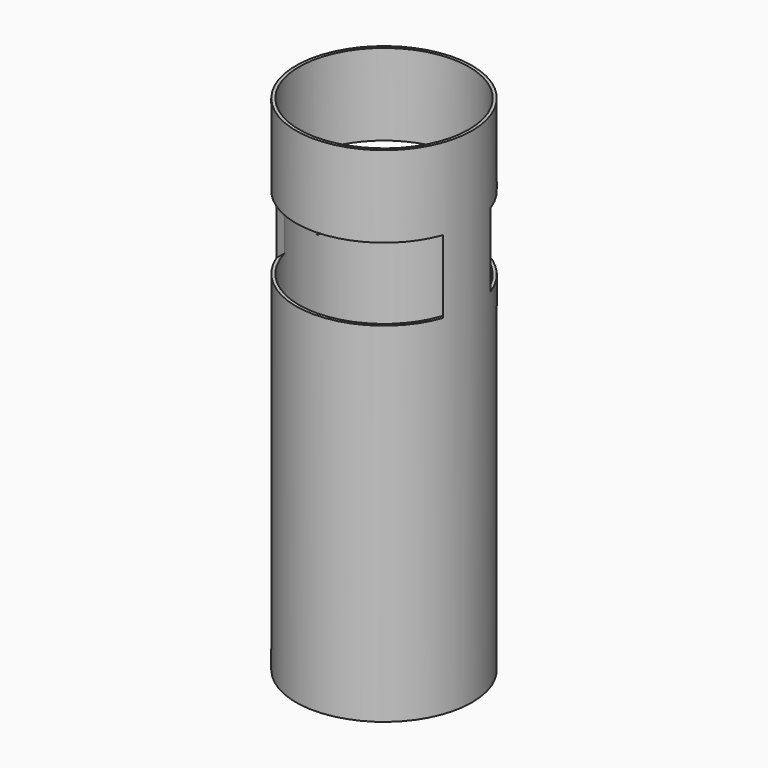
from build123d import *

# Parameters (mm, degrees)
F0_R     = 14
F0_R_2   = 13.5
F1_DEPTH = 80
F2_W     = 26.356387
F2_H     = 11.70228
F3_DEPTH = 25.4
F4_W     = 26.242665
F4_H     = 11.610649
F5_DEPTH = 25.4


with BuildPart() as f1:
    # F0 (on Top) → F1 (new body)
    with BuildSketch(Plane.XY):
        Circle(F0_R)
        Circle(F0_R_2, mode=Mode.SUBTRACT)
    extrude(amount=F1_DEPTH)

    # F2 (on Front) → F3 (cut)
    with BuildSketch(Plane.XZ):
        with Locations((0.00854, 61.186025)):
            Rectangle(F2_W, F2_H)
    extrude(amount=-F3_DEPTH, mode=Mode.SUBTRACT)

    # F4 (on Front) → F5 (cut)
    with BuildSketch(Plane.XZ):
        with Locations((0.058447, 61.244421)):
            Rectangle(F4_W, F4_H)
    extrude(amount=F5_DEPTH, mode=Mode.SUBTRACT)


solid = f1.part
